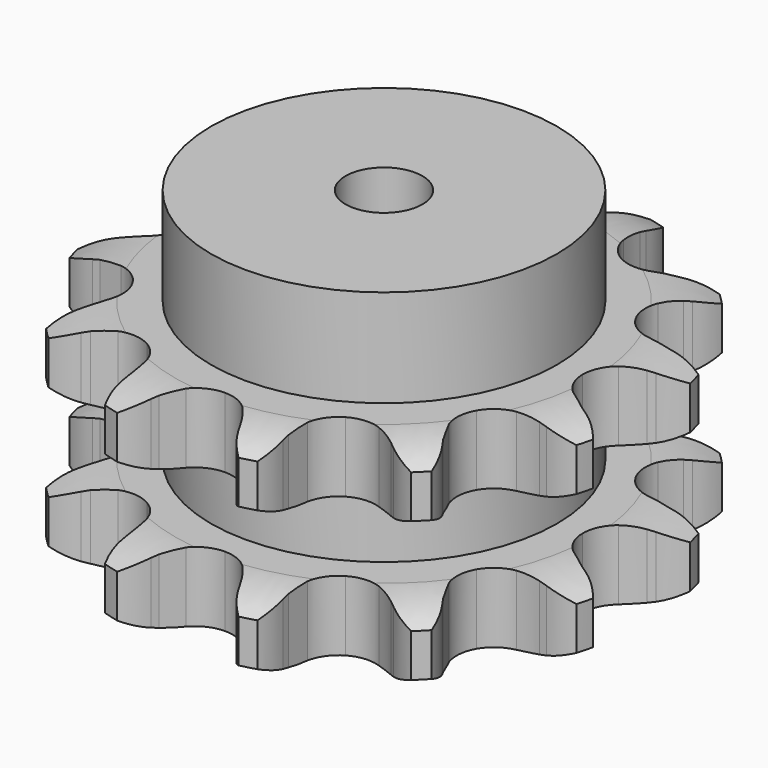
from build123d import *

# Parameters (mm, degrees)
PAD_DEPTH         = 54.6
SKETCH001_R       = 45
PAD001_DEPTH      = 80
SKETCH002_R       = 10
POCKET_DEPTH      = 0.001
POCKET_DEPTH_BACK = 80.001


with BuildPart() as part:
    # Sprocket → Pad (new body)
    with BuildSketch(Plane.XY):
        with BuildLine():
            ThreePointArc((-18.424737, 68.762054), (-14.334298, 65.771762), (-11.375996, 61.658128))
            Line((-11.375996, 61.658128), (-10.532902, 59.979388))
            ThreePointArc((-10.532902, 59.979388), (-9.087961, 57.476677), (-7.362242, 55.158635))
            ThreePointArc((-7.362242, 55.158635), (-4.061668, 52.626015), (0, 51.725565))
            ThreePointArc((0, 51.725565), (4.061668, 52.626015), (7.362242, 55.158635))
            ThreePointArc((7.362242, 55.158635), (9.087961, 57.476677), (10.532902, 59.979388))
            Line((10.532902, 59.979388), (11.375996, 61.658128))
            ThreePointArc((11.375996, 61.658128), (14.334298, 65.771762), (18.424737, 68.762054))
            ThreePointArc((18.424737, 68.762054), (20.472015, 64.127166), (20.977162, 59.085503))
            Line((20.977162, 59.085503), (20.867934, 57.210125))
            ThreePointArc((20.867934, 57.210125), (20.867934, 54.320242), (21.203428, 51.4499))
            ThreePointArc((21.203428, 51.4499), (22.7955, 47.6063), (25.862782, 44.795653))
            ThreePointArc((25.862782, 44.795653), (29.830515, 43.544632), (33.955207, 44.087658))
            Line((33.955207, 44.087658), (39.111454, 46.677223))
            ThreePointArc((39.111454, 46.677223), (39.886452, 47.208201), (40.680966, 47.709507))
            ThreePointArc((40.680966, 47.709507), (45.299747, 49.792868), (50.337317, 50.337317))
            ThreePointArc((50.337317, 50.337317), (49.792868, 45.299747), (47.709507, 40.680966))
            Line((47.709507, 40.680966), (46.677223, 39.111454))
            ThreePointArc((46.677223, 39.111454), (45.232282, 36.608743), (44.087658, 33.955207))
            ThreePointArc((44.087658, 33.955207), (43.544632, 29.830515), (44.795653, 25.862782))
            ThreePointArc((44.795653, 25.862782), (47.6063, 22.7955), (51.4499, 21.203428))
            Line((51.4499, 21.203428), (57.210125, 20.867934))
            ThreePointArc((57.210125, 20.867934), (58.146781, 20.940275), (59.085503, 20.977162))
            ThreePointArc((59.085503, 20.977162), (64.127166, 20.472015), (68.762054, 18.424737))
            ThreePointArc((68.762054, 18.424737), (65.771762, 14.334298), (61.658128, 11.375996))
            Line((61.658128, 11.375996), (59.979388, 10.532902))
            ThreePointArc((59.979388, 10.532902), (57.476677, 9.087961), (55.158635, 7.362242))
            ThreePointArc((55.158635, 7.362242), (52.626015, 4.061668), (51.725565, 0))
            ThreePointArc((51.725565, 0), (52.626015, -4.061668), (55.158635, -7.362242))
            Line((55.158635, -7.362242), (59.979388, -10.532902))
            ThreePointArc((59.979388, -10.532902), (60.826727, -10.938581), (61.658128, -11.375996))
            ThreePointArc((61.658128, -11.375996), (65.771762, -14.334298), (68.762054, -18.424737))
            ThreePointArc((68.762054, -18.424737), (64.127166, -20.472015), (59.085503, -20.977162))
            Line((59.085503, -20.977162), (57.210125, -20.867934))
            ThreePointArc((57.210125, -20.867934), (54.320242, -20.867934), (51.4499, -21.203428))
            ThreePointArc((51.4499, -21.203428), (47.6063, -22.7955), (44.795653, -25.862782))
            ThreePointArc((44.795653, -25.862782), (43.544632, -29.830515), (44.087658, -33.955207))
            Line((44.087658, -33.955207), (46.677223, -39.111454))
            ThreePointArc((46.677223, -39.111454), (47.208201, -39.886452), (47.709507, -40.680966))
            ThreePointArc((47.709507, -40.680966), (49.792868, -45.299747), (50.337317, -50.337317))
            ThreePointArc((50.337317, -50.337317), (45.299747, -49.792868), (40.680966, -47.709507))
            Line((40.680966, -47.709507), (39.111454, -46.677223))
            ThreePointArc((39.111454, -46.677223), (36.608743, -45.232282), (33.955207, -44.087658))
            ThreePointArc((33.955207, -44.087658), (29.830515, -43.544632), (25.862782, -44.795653))
            ThreePointArc((25.862782, -44.795653), (22.7955, -47.6063), (21.203428, -51.4499))
            Line((21.203428, -51.4499), (20.867934, -57.210125))
            ThreePointArc((20.867934, -57.210125), (20.940275, -58.146781), (20.977162, -59.085503))
            ThreePointArc((20.977162, -59.085503), (20.472015, -64.127166), (18.424737, -68.762054))
            ThreePointArc((18.424737, -68.762054), (14.334298, -65.771762), (11.375996, -61.658128))
            Line((11.375996, -61.658128), (10.532902, -59.979388))
            ThreePointArc((10.532902, -59.979388), (9.087961, -57.476677), (7.362242, -55.158635))
            ThreePointArc((7.362242, -55.158635), (4.061668, -52.626015), (0, -51.725565))
            ThreePointArc((0, -51.725565), (-4.061668, -52.626015), (-7.362242, -55.158635))
            Line((-7.362242, -55.158635), (-10.532902, -59.979388))
            ThreePointArc((-10.532902, -59.979388), (-10.938581, -60.826727), (-11.375996, -61.658128))
            ThreePointArc((-11.375996, -61.658128), (-14.334298, -65.771762), (-18.424737, -68.762054))
            ThreePointArc((-18.424737, -68.762054), (-20.472015, -64.127166), (-20.977162, -59.085503))
            Line((-20.977162, -59.085503), (-20.867934, -57.210125))
            ThreePointArc((-20.867934, -57.210125), (-20.867934, -54.320242), (-21.203428, -51.4499))
            ThreePointArc((-21.203428, -51.4499), (-22.7955, -47.6063), (-25.862782, -44.795653))
            ThreePointArc((-25.862782, -44.795653), (-29.830515, -43.544632), (-33.955207, -44.087658))
            Line((-33.955207, -44.087658), (-39.111454, -46.677223))
            ThreePointArc((-39.111454, -46.677223), (-39.886452, -47.208201), (-40.680966, -47.709507))
            ThreePointArc((-40.680966, -47.709507), (-45.299747, -49.792868), (-50.337317, -50.337317))
            ThreePointArc((-50.337317, -50.337317), (-49.792868, -45.299747), (-47.709507, -40.680966))
            Line((-47.709507, -40.680966), (-46.677223, -39.111454))
            ThreePointArc((-46.677223, -39.111454), (-45.232282, -36.608743), (-44.087658, -33.955207))
            ThreePointArc((-44.087658, -33.955207), (-43.544632, -29.830515), (-44.795653, -25.862782))
            ThreePointArc((-44.795653, -25.862782), (-47.6063, -22.7955), (-51.4499, -21.203428))
            Line((-51.4499, -21.203428), (-57.210125, -20.867934))
            ThreePointArc((-57.210125, -20.867934), (-58.146781, -20.940275), (-59.085503, -20.977162))
            ThreePointArc((-59.085503, -20.977162), (-64.127166, -20.472015), (-68.762054, -18.424737))
            ThreePointArc((-68.762054, -18.424737), (-65.771762, -14.334298), (-61.658128, -11.375996))
            Line((-61.658128, -11.375996), (-59.979388, -10.532902))
            ThreePointArc((-59.979388, -10.532902), (-57.476677, -9.087961), (-55.158635, -7.362242))
            ThreePointArc((-55.158635, -7.362242), (-52.626015, -4.061668), (-51.725565, 0))
            ThreePointArc((-51.725565, 0), (-52.626015, 4.061668), (-55.158635, 7.362242))
            Line((-55.158635, 7.362242), (-59.979388, 10.532902))
            ThreePointArc((-59.979388, 10.532902), (-60.826727, 10.938581), (-61.658128, 11.375996))
            ThreePointArc((-61.658128, 11.375996), (-65.771762, 14.334298), (-68.762054, 18.424737))
            ThreePointArc((-68.762054, 18.424737), (-64.127166, 20.472015), (-59.085503, 20.977162))
            Line((-59.085503, 20.977162), (-57.210125, 20.867934))
            ThreePointArc((-57.210125, 20.867934), (-54.320242, 20.867934), (-51.4499, 21.203428))
            ThreePointArc((-51.4499, 21.203428), (-47.6063, 22.7955), (-44.795653, 25.862782))
            ThreePointArc((-44.795653, 25.862782), (-43.544632, 29.830515), (-44.087658, 33.955207))
            Line((-44.087658, 33.955207), (-46.677223, 39.111454))
            ThreePointArc((-46.677223, 39.111454), (-47.208201, 39.886452), (-47.709507, 40.680966))
            ThreePointArc((-47.709507, 40.680966), (-49.792868, 45.299747), (-50.337317, 50.337317))
            ThreePointArc((-50.337317, 50.337317), (-45.299747, 49.792868), (-40.680966, 47.709507))
            Line((-40.680966, 47.709507), (-39.111454, 46.677223))
            ThreePointArc((-39.111454, 46.677223), (-36.608743, 45.232282), (-33.955207, 44.087658))
            ThreePointArc((-33.955207, 44.087658), (-29.830515, 43.544632), (-25.862782, 44.795653))
            ThreePointArc((-25.862782, 44.795653), (-22.7955, 47.6063), (-21.203428, 51.4499))
            Line((-21.203428, 51.4499), (-20.867934, 57.210125))
            ThreePointArc((-20.867934, 57.210125), (-20.940275, 58.146781), (-20.977162, 59.085503))
            ThreePointArc((-20.977162, 59.085503), (-20.472015, 64.127166), (-18.424737, 68.762054))
        make_face()
    extrude(amount=PAD_DEPTH)

    # Sketch → Groove (revolve, cut)
    with BuildSketch(Plane.XZ):
        with BuildLine():
            ThreePointArc((54.348368, 0), (61.831683, 0.887302), (68.9, 3.5))
            Line((68.9, 3.5), (68.9, 14.7))
            ThreePointArc((68.9, 14.7), (61.831683, 17.312698), (54.348368, 18.2))
            Line((45, 18.2), (54.348368, 18.2))
            Line((45, 36.4), (45, 18.2))
            Line((54.348368, 36.4), (45, 36.4))
            ThreePointArc((54.348368, 36.4), (61.831683, 37.287302), (68.9, 39.9))
            Line((68.9, 39.9), (68.9, 51.1))
            ThreePointArc((68.9, 51.1), (61.831683, 53.712698), (54.348368, 54.6))
            Line((54.348368, 54.6), (78.9, 54.6))
            Line((78.9, 54.6), (78.9, 0))
            Line((54.348368, 0), (78.9, 0))
        make_face()
    revolve(axis=Axis((0, 0, 0), (0, 0, 1)), mode=Mode.SUBTRACT)

    # Sketch001 → Pad001 (join)
    with BuildSketch(Plane.XY):
        Circle(SKETCH001_R)
    extrude(amount=PAD001_DEPTH)

    # Sketch002 → Pocket (cut, two sides)
    with BuildSketch(Plane.XY) as pocket_sk:
        Circle(SKETCH002_R)
    extrude(amount=-POCKET_DEPTH, mode=Mode.SUBTRACT)
    extrude(pocket_sk.sketch, amount=POCKET_DEPTH_BACK, mode=Mode.SUBTRACT)


solid = part.part
